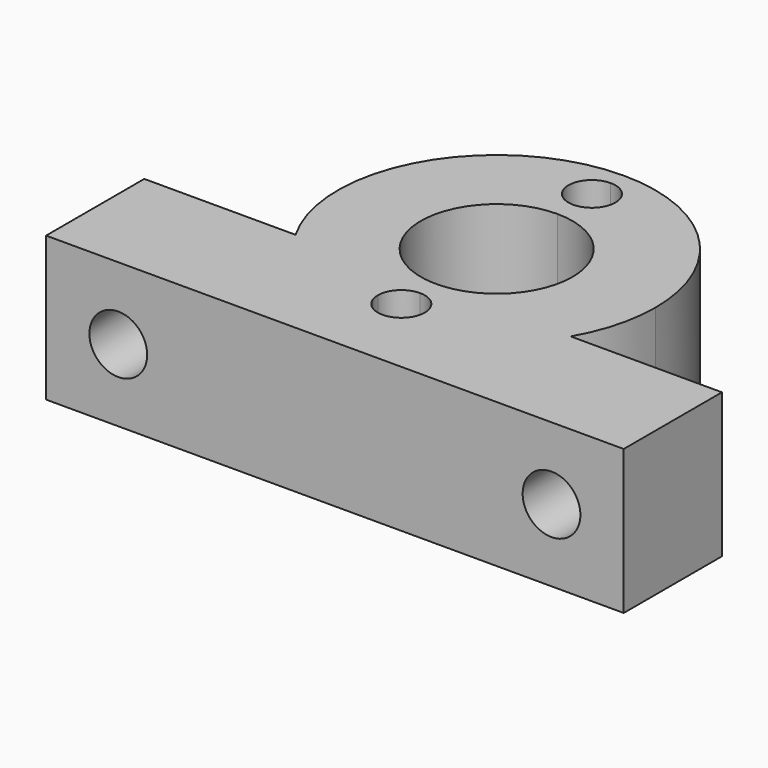
from build123d import *

# Parameters (mm, degrees)
F1_DEPTH = 10
F3_DEPTH = 10


with BuildPart() as f1:
    # F0 (on Top) → F1 (new body)
    with BuildSketch(Plane.XY):
        with BuildLine():
            ThreePointArc((-7.2758161054, -8.25), (-8.5128273031, -6.966474812), (-9.5262794416, -5.5))
            Line((-9.5262794416, -5.5), (-20, -5.5))
            Line((-20, -5.5), (-20, -8.25))
            Line((-20, -8.25), (-7.2758161054, -8.25))
        make_face()
        with BuildLine():
            ThreePointArc((0, -11), (-3.8890872965, -10.2895578136), (-7.2758161054, -8.25))
            Line((-7.2758161054, -8.25), (-20, -8.25))
            Line((-20, -8.25), (-20, -11))
            Line((-20, -11), (0, -11))
        make_face()
        with BuildLine():
            Line((0, -5.5), (-9.5262794416, -5.5))
            ThreePointArc((-9.5262794416, -5.5), (-8.5128273031, -6.966474812), (-7.2758161054, -8.25))
            Line((-7.2758161054, -8.25), (-1.625, -8.25))
            ThreePointArc((-1.625, -8.25), (-1.1490485194, -7.1009514806), (0, -6.625))
            Line((0, -6.625), (0, -5.5))
        make_face()
        with BuildLine():
            Line((-1.625, -8.25), (-7.2758161054, -8.25))
            ThreePointArc((-7.2758161054, -8.25), (-3.8890872965, -10.2895578136), (0, -11))
            Line((0, -11), (0, -9.875))
            ThreePointArc((0, -9.875), (-1.1490485194, -9.3990485194), (-1.625, -8.25))
        make_face()
        with BuildLine():
            ThreePointArc((0, -11), (3.8890872965, -10.2895578136), (7.2758161054, -8.25))
            Line((7.2758161054, -8.25), (1.625, -8.25))
            ThreePointArc((1.625, -8.25), (1.1490485194, -9.3990485194), (0, -9.875))
            Line((0, -9.875), (0, -11))
        make_face()
        with BuildLine():
            ThreePointArc((7.2758161054, -8.25), (8.5128273031, -6.966474812), (9.5262794416, -5.5))
            Line((9.5262794416, -5.5), (0, -5.5))
            Line((0, -5.5), (0, -6.625))
            ThreePointArc((0, -6.625), (1.1490485194, -7.1009514806), (1.625, -8.25))
            Line((1.625, -8.25), (7.2758161054, -8.25))
        make_face()
        with BuildLine():
            Line((20, -5.5), (9.5262794416, -5.5))
            ThreePointArc((9.5262794416, -5.5), (8.5128273031, -6.966474812), (7.2758161054, -8.25))
            Line((7.2758161054, -8.25), (20, -8.25))
            Line((20, -8.25), (20, -5.5))
        make_face()
        with BuildLine():
            Line((20, -8.25), (7.2758161054, -8.25))
            ThreePointArc((7.2758161054, -8.25), (3.8890872965, -10.2895578136), (0, -11))
            Line((0, -11), (20, -11))
            Line((20, -11), (20, -8.25))
        make_face()
        with BuildLine():
            ThreePointArc((9.5262794416, -5.5), (10.6251840892, -2.8470094961), (11, 0))
            Line((11, 0), (5.25, 0))
            ThreePointArc((5.25, 0), (-3.7123106012, -3.7123106012), (0, 5.25))
            Line((0, 5.25), (0, 5.5))
            Line((0, 5.5), (0, 6.625))
            ThreePointArc((0, 6.625), (-1.625, 8.25), (0, 9.875))
            Line((0, 9.875), (0, 11))
            ThreePointArc((0, 11), (-9.5262794416, 5.5), (-9.5262794416, -5.5))
            Line((-9.5262794416, -5.5), (0, -5.5))
            Line((0, -5.5), (9.5262794416, -5.5))
        make_face()
        with BuildLine():
            Line((5.25, 0), (11, 0))
            ThreePointArc((11, 0), (7.7781745931, 7.7781745931), (0, 11))
            Line((0, 11), (0, 9.875))
            ThreePointArc((0, 9.875), (1.1490485194, 9.3990485194), (1.625, 8.25))
            ThreePointArc((1.625, 8.25), (1.1490485194, 7.1009514806), (0, 6.625))
            Line((0, 6.625), (0, 5.5))
            Line((0, 5.5), (0, 5.25))
            ThreePointArc((0, 5.25), (3.7123106012, 3.7123106012), (5.25, 0))
        make_face()
        with BuildLine():
            ThreePointArc((0, -11), (-3.8890872965, -10.2895578136), (-7.2758161054, -8.25))
            Line((-7.2758161054, -8.25), (-20, -8.25))
            Line((-20, -8.25), (-20, -11))
            Line((-20, -11), (0, -11))
        make_face()
        Polygon((20, -11), (0, -11), (-20, -11), (-20, -14), (20, -14), align=None)
        with BuildLine():
            Line((20, -8.25), (7.2758161054, -8.25))
            ThreePointArc((7.2758161054, -8.25), (3.8890872965, -10.2895578136), (0, -11))
            Line((0, -11), (20, -11))
            Line((20, -11), (20, -8.25))
        make_face()
    extrude(amount=F1_DEPTH)

    # F2 (on face) → F3 (cut)
    with BuildSketch(Plane.XZ.offset(14)):
        with BuildLine():
            Line((-17, 5), (-13, 5))
            ThreePointArc((-13, 5), (-15, 7), (-17, 5))
        make_face()
        with BuildLine():
            ThreePointArc((-17, 5), (-15, 3), (-13, 5))
            Line((-13, 5), (-17, 5))
        make_face()
        with BuildLine():
            Line((13, 5), (17, 5))
            ThreePointArc((17, 5), (15, 7), (13, 5))
        make_face()
        with BuildLine():
            ThreePointArc((13, 5), (15, 3), (17, 5))
            Line((17, 5), (13, 5))
        make_face()
    extrude(amount=-F3_DEPTH, mode=Mode.SUBTRACT)


solid = f1.part
